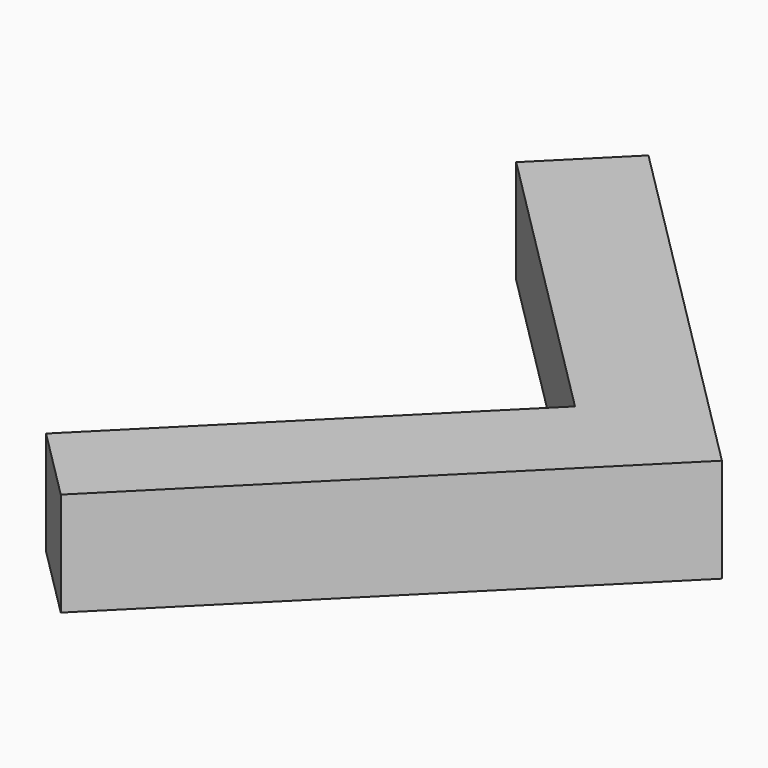
from build123d import *

# Parameters (mm, degrees)
BOX061_W               = 1
BOX061_H               = 5
BOX061_DEPTH           = 1
BOX061_PLACEMENT_ANGLE = 45
BOX064_W               = 1
BOX064_H               = 4
BOX064_DEPTH           = 1
BOX064_PLACEMENT_ANGLE = 135


with BuildPart() as cube061:
    # Box061 → Box061 (new body)
    with BuildSketch(Plane.XY):
        with Locations((0.5, 2.5)):
            Rectangle(BOX061_W, BOX061_H)
    extrude(amount=BOX061_DEPTH)


with BuildPart() as cube061_1:
    # Box061 placement: moved
    add(cube061.part.rotate(Axis((0, 0, 0), (0, 0, 1)), BOX061_PLACEMENT_ANGLE))


with BuildPart() as obj1:
    # Box064 → Box064 (new body)
    with BuildSketch(Plane.XY):
        with Locations((0.5, 2)):
            Rectangle(BOX064_W, BOX064_H)
    extrude(amount=BOX064_DEPTH)


with BuildPart() as obj1_1:
    # Box064 placement: moved
    add(obj1.part.rotate(Axis((0, 0, 0), (0, 0, 1)), BOX064_PLACEMENT_ANGLE))

    # Fusion007: union Cube061
    add(cube061_1.part)


with BuildPart() as obj1_2:
    # Fusion007 placement: moved
    add(obj1_1.part.moved(Location((16, 5, 0))))


solid = obj1_2.part
